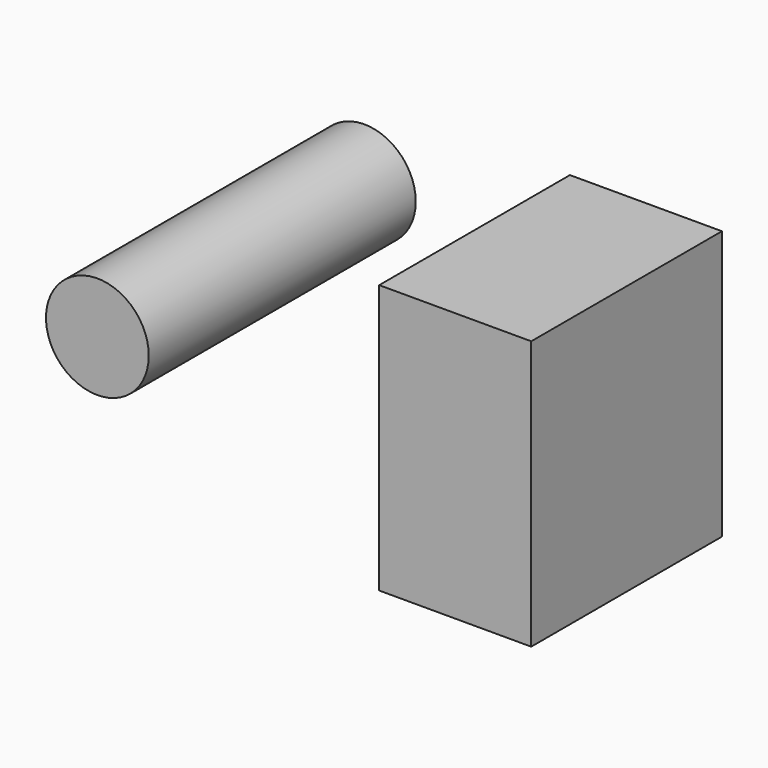
from build123d import *

# Parameters (mm, degrees)
F0_W     = 89.613073
F0_H     = 101.0831
F1_DEPTH = 57.15
F2_R     = 19.318048
F3_DEPTH = 125.476


with BuildPart() as f1:
    # F0 (on Right) → F1 (new body)
    with BuildSketch(Plane.YZ):
        with Locations((-1.441143, 5.637206)):
            Rectangle(F0_W, F0_H)
    extrude(amount=F1_DEPTH)


with BuildPart() as f3:
    # F2 (on Front) → F3 (new body)
    with BuildSketch(Plane.XZ):
        with Locations((-42.581949, 57.456423)):
            Circle(F2_R)
    extrude(amount=F3_DEPTH)


solid = Compound([f1.part, f3.part])
